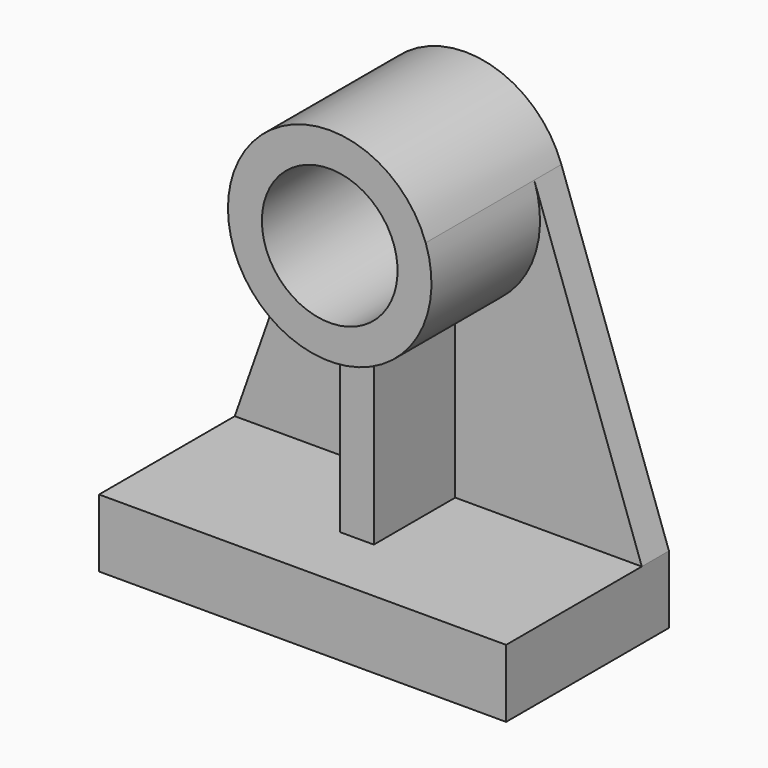
from build123d import *

# Parameters (mm, degrees)
F0_W     = 304.8
F0_H     = 50.8
F1_DEPTH = 152.4
F2_R     = 50.8
F3_DEPTH = 127
F4_DEPTH = 101.6
F5_DEPTH = 25.4


with BuildPart() as f1:
    # F0 (on Front) → F1 (new body)
    with BuildSketch(Plane.XZ):
        with Locations((152.4, -25.4)):
            Rectangle(F0_W, F0_H)
    extrude(amount=-F1_DEPTH)


with BuildPart() as f3:
    # F2 (on face) → F3 (new body)
    with BuildSketch(Plane(origin=(0, 152.4, 0), x_dir=(-1, 0, 0), z_dir=(0, 1, 0))):
        with BuildLine():
            ThreePointArc((-139.7, 128.065787), (-94.201289, 154.013112), (-76.2, 203.2))
            ThreePointArc((-76.2, 203.2), (-77.290774, 216.046949), (-80.531866, 228.5261))
            ThreePointArc((-80.531866, 228.5261), (-152.4, 279.4), (-224.268134, 228.5261))
            ThreePointArc((-224.268134, 228.5261), (-218.058289, 164.529222), (-165.1, 128.065787))
            ThreePointArc((-165.1, 128.065787), (-152.4, 127), (-139.7, 128.065787))
        make_face()
        with Locations((-152.4, 203.2)):
            Circle(F2_R, mode=Mode.SUBTRACT)
    extrude(amount=-F3_DEPTH)


with BuildPart() as f4:
    # F2 (on face) → F4 (new body)
    with BuildSketch(Plane(origin=(0, 152.4, 0), x_dir=(-1, 0, 0), z_dir=(0, 1, 0))):
        with BuildLine():
            Line((-139.7, 0), (-139.7, 128.065787))
            ThreePointArc((-139.7, 128.065787), (-152.4, 127), (-165.1, 128.065787))
            Line((-165.1, 128.065787), (-165.1, 0))
            Line((-165.1, 0), (-139.7, 0))
        make_face()
    extrude(amount=-F4_DEPTH)


with BuildPart() as f5:
    # F2 (on face) → F5 (new body)
    with BuildSketch(Plane(origin=(0, 152.4, 0), x_dir=(-1, 0, 0), z_dir=(0, 1, 0))):
        with BuildLine():
            ThreePointArc((-165.1, 128.065787), (-218.058289, 164.529222), (-224.268134, 228.5261))
            Line((-224.268134, 228.5261), (-304.8, 0))
            Line((-304.8, 0), (-165.1, 0))
            Line((-165.1, 0), (-165.1, 128.065787))
        make_face()
        with BuildLine():
            ThreePointArc((-80.531866, 228.5261), (-77.290774, 216.046949), (-76.2, 203.2))
            ThreePointArc((-76.2, 203.2), (-94.201289, 154.013112), (-139.7, 128.065787))
            Line((-139.7, 128.065787), (-139.7, 0))
            Line((-139.7, 0), (0, 0))
            Line((0, 0), (-80.531866, 228.5261))
        make_face()
    extrude(amount=-F5_DEPTH)


solid = Compound([f1.part, f3.part, f4.part, f5.part])
